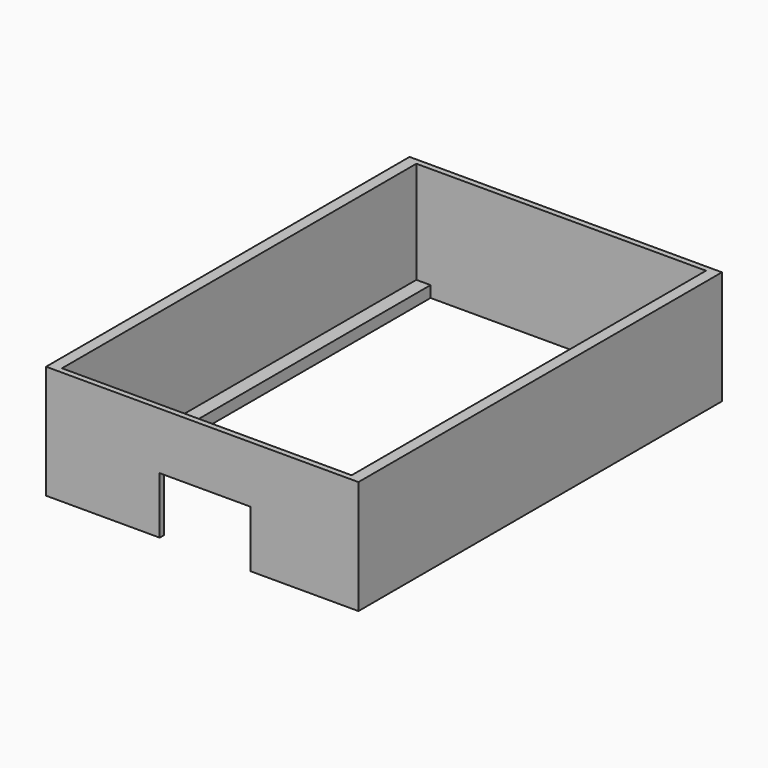
from build123d import *

# Parameters (mm, degrees)
F1_DEPTH = 2
F2_DEPTH = 20
F0_W     = 16
F0_H     = 1
F3_DEPTH = 20
F4_DEPTH = 10


with BuildPart() as f1:
    # F0 (on Top) → F1 (new body)
    with BuildSketch(Plane.XY):
        Polygon((-23, -39), (-23, -35), (-23, 35), (-23, 39), (-25.5, 39), (-25.5, -39), align=None)
        Polygon((25.5, -39), (23, -39), (8.5, -39), (8.5, -40), (27.5, -40), (27.5, 40), (-27.5, 40), (-27.5, -40), (-7.5, -40), (-7.5, -39), (-23, -39), (-25.5, -39), (-25.5, 39), (-23, 39), (23, 39), (25.5, 39), align=None)
        Polygon((23, 35), (23, -35), (23, -39), (25.5, -39), (25.5, 39), (23, 39), align=None)
    extrude(amount=F1_DEPTH)

    # F0 (on Top) → F2 (join)
    with BuildSketch(Plane.XY):
        Polygon((25.5, -39), (23, -39), (8.5, -39), (8.5, -40), (27.5, -40), (27.5, 40), (-27.5, 40), (-27.5, -40), (-7.5, -40), (-7.5, -39), (-23, -39), (-25.5, -39), (-25.5, 39), (-23, 39), (23, 39), (25.5, 39), align=None)
    extrude(amount=F2_DEPTH)

    # F0 (on Top) → F3 (join)
    with BuildSketch(Plane.XY):
        with Locations((0.5, -39.5)):
            Rectangle(F0_W, F0_H)
    extrude(amount=F3_DEPTH)

    # F0 (on Top) → F4 (cut)
    with BuildSketch(Plane.XY):
        with Locations((0.5, -39.5)):
            Rectangle(F0_W, F0_H)
    extrude(amount=F4_DEPTH, mode=Mode.SUBTRACT)


solid = f1.part
